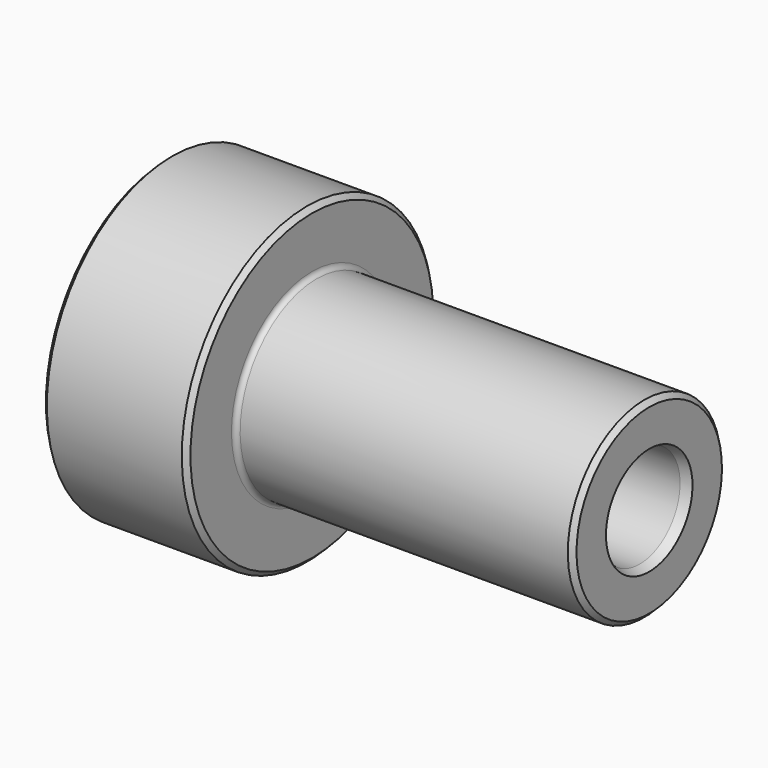
from build123d import *

# Parameters (mm, degrees)
F2_SIZE = 12.7


with BuildPart() as f1:
    # F0 (on Front) → F1 (revolve)
    with BuildSketch(Plane.XZ):
        with BuildLine():
            Line((-25.4, 133.35), (0, 142.594844))
            Line((0, 142.594844), (0, 252.2855))
            Line((0, 252.2855), (-876.3, 252.2855))
            ThreePointArc((-876.3, 252.2855), (-885.280256, 256.005244), (-889, 264.9855))
            Line((-889, 264.9855), (-889, 412.75))
            Line((-889, 412.75), (-1270, 412.75))
            Line((-1270, 412.75), (-1270, 142.594844))
            Line((-1270, 142.594844), (-1244.6, 133.35))
            Line((-1244.6, 133.35), (-25.4, 133.35))
        make_face()
    revolve(axis=Axis((-190.5, 0, 0), (-1, 0, 0)))

    # F2
    f2_edges = [f1.edges().sort_by_distance(p)[0] for p in [
        (0, 0, -252.2855),
        (-889, 0, -412.75),
        (-1270, 0, -412.75),
    ]]
    chamfer(f2_edges, length=F2_SIZE)


solid = f1.part
